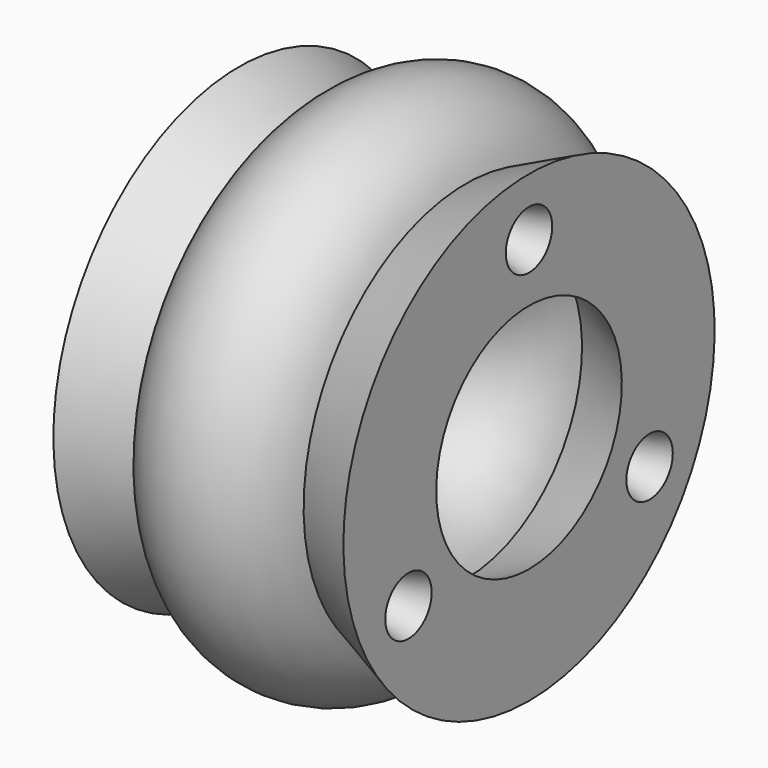
from build123d import *

# Parameters (mm, degrees)
F2_R     = 12.7
F3_DEPTH = 25.4
F3_TAPER = 15
F4_T     = -2.54


with BuildPart() as f1:
    # F0 (on Front) → F1 (revolve)
    with BuildSketch(Plane.XZ):
        with BuildLine():
            Line((-63.5, -25.4), (-35.9210244843, -12.7))
            ThreePointArc((-35.9210244843, -12.7), (0, -38.1), (35.9210244843, -12.7))
            Line((35.9210244843, -12.7), (63.5, -25.4))
            Line((63.5, -25.4), (63.5, 25.4))
            Line((63.5, 25.4), (35.9210244843, 12.7))
            ThreePointArc((35.9210244843, 12.7), (0, 38.1), (-35.9210244843, 12.7))
            Line((-35.9210244843, 12.7), (-63.5, 25.4))
            Line((-63.5, 25.4), (-63.5, -25.4))
        make_face()
    revolve(axis=Axis((0, 0, 76.2), (1, 0, 0)))

    # F2 (on face) → F3 (cut)
    with BuildSketch(Plane.YZ.offset(63.5)):
        with Locations((0, 152.4)):
            Circle(F2_R)
        with Locations((-65.9911357684, 38.1)):
            Circle(F2_R)
        with Locations((65.9911357684, 38.1)):
            Circle(F2_R)
    extrude(amount=-F3_DEPTH, taper=F3_TAPER, mode=Mode.SUBTRACT)

    # F4
    f4_openings = [f1.faces().sort_by_distance(p)[0] for p in [
        (-63.5, 0, 129.873682),
    ]]
    offset(amount=F4_T, openings=f4_openings, kind=Kind.INTERSECTION)


solid = f1.part
